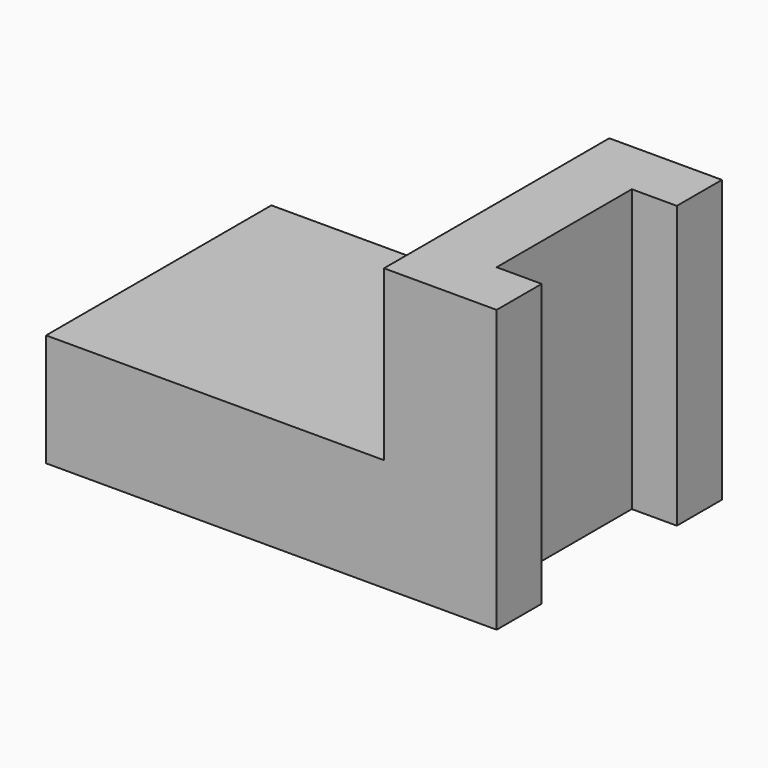
from build123d import *

# Parameters (mm, degrees)
F0_W     = 60
F0_H     = 50
F1_DEPTH = 20
F2_DEPTH = 50


with BuildPart() as f1:
    # F0 (on Top) → F1 (new body)
    with BuildSketch(Plane.XY):
        with Locations((-30, 25)):
            Rectangle(F0_W, F0_H)
    extrude(amount=F1_DEPTH)

    # F0 (on Top) → F2 (join)
    with BuildSketch(Plane.XY):
        Polygon((0, 50), (0, 0), (20, 0), (20, 10), (12, 10), (12, 40), (20, 40), (20, 50), align=None)
    extrude(amount=F2_DEPTH)


solid = f1.part
